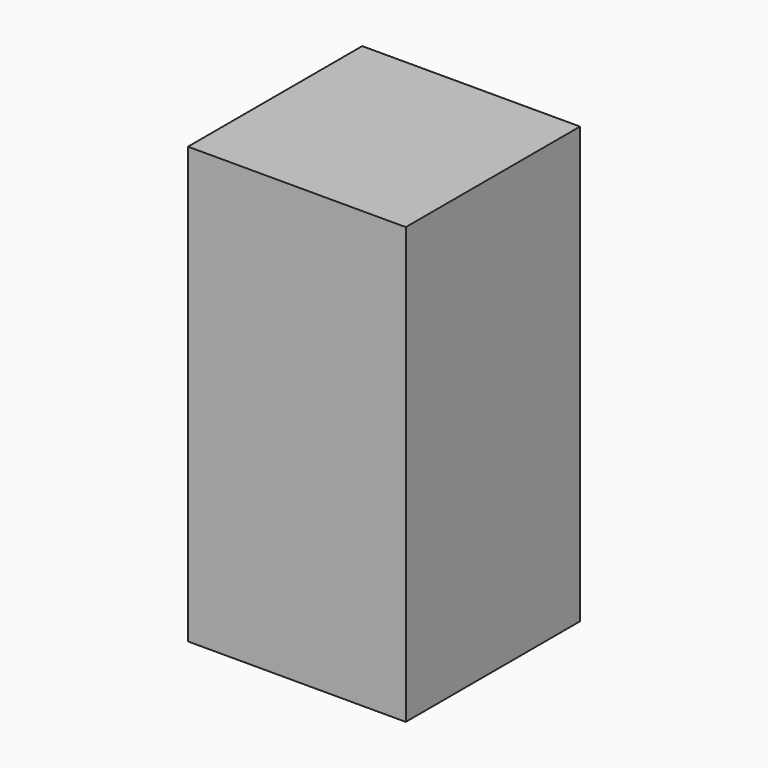
from build123d import *

# Parameters (mm, degrees)
F0_W     = 25.4
F0_H     = 25.4
F1_DEPTH = 25.4
F2_W     = 25.4
F2_H     = 25.4
F3_DEPTH = 25.4


with BuildPart() as f1:
    # F0 (on Front) → F1 (new body)
    with BuildSketch(Plane.XZ):
        with Locations((12.7, -12.7)):
            Rectangle(F0_W, F0_H)
    extrude(amount=F1_DEPTH)

    # F2 (on face) → F3 (join)
    with BuildSketch(Plane.XY):
        with Locations((12.7, -12.7)):
            Rectangle(F2_W, F2_H)
    extrude(amount=F3_DEPTH)


solid = f1.part
